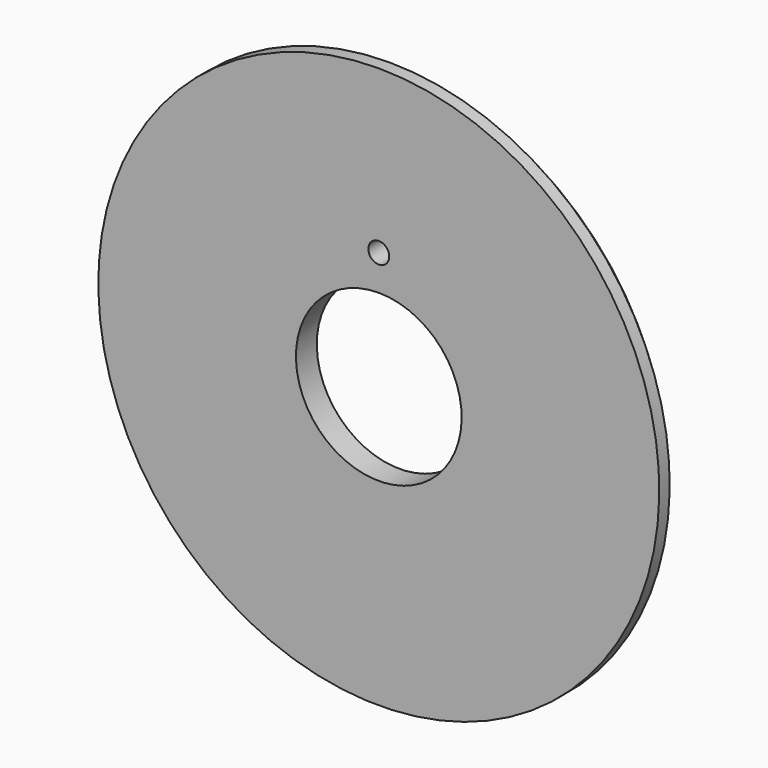
from build123d import *

# Parameters (mm, degrees)
F0_W     = 508
F0_H     = 3848.1
F2_SIZE  = 254
F3_R     = 203.2
F4_DEPTH = 508.001


with BuildPart() as f1:
    # F0 (on Right) → F1 (revolve)
    with BuildSketch(Plane.YZ):
        with Locations((254, 3536.95)):
            Rectangle(F0_W, F0_H)
    revolve(axis=Axis((0, 349.275798, 0), (0, 1, 0)))

    # F2
    f2_edges = [f1.edges().sort_by_distance(p)[0] for p in [
        (0, 508, -5461),
    ]]
    chamfer(f2_edges, length=F2_SIZE)

    # F3 (on face) → F4 (cut, through all)
    with BuildSketch(Plane(origin=(0, 508, 0), x_dir=(-1, 0, 0), z_dir=(0, 1, 0))):
        with Locations((0, 2299.97)):
            Circle(F3_R)
    extrude(amount=-F4_DEPTH, mode=Mode.SUBTRACT)


solid = f1.part
